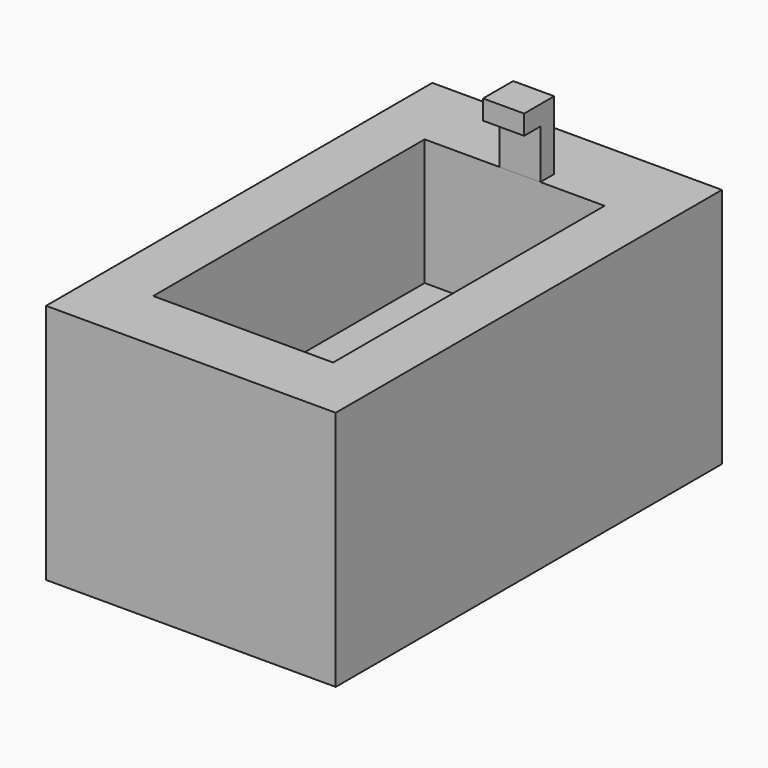
from build123d import *

# Parameters (mm, degrees)
F0_W     = 914.4
F0_H     = 1524
F1_DEPTH = 762
F2_W     = 568.152651
F2_H     = 1071.275771
F3_DEPTH = 399.288
F4_W     = 129.581191
F4_H     = 54.741204
F5_DEPTH = 216.408
F6_W     = 129.581191
F6_H     = 61.921916
F7_DEPTH = 64.008


with BuildPart() as f1:
    # F0 (on Top) → F1 (new body)
    with BuildSketch(Plane.XY):
        with Locations((-123.563499, 8.778076)):
            Rectangle(F0_W, F0_H)
    extrude(amount=F1_DEPTH)

    # F2 (on face) → F3 (cut)
    with BuildSketch(Plane.XY.offset(762)):
        with Locations((-123.065926, -12.035578)):
            Rectangle(F2_W, F2_H)
    extrude(amount=-F3_DEPTH, mode=Mode.SUBTRACT)

    # F4 (on face) → F5 (join)
    with BuildSketch(Plane.XY.offset(762)):
        with Locations((-106.683384, 550.972909)):
            Rectangle(F4_W, F4_H)
    extrude(amount=F5_DEPTH)

    # F6 (on face) → F7 (join)
    with BuildSketch(Plane.XZ.offset(-523.602307)):
        with Locations((-106.683384, 947.447042)):
            Rectangle(F6_W, F6_H)
    extrude(amount=F7_DEPTH)


solid = f1.part
